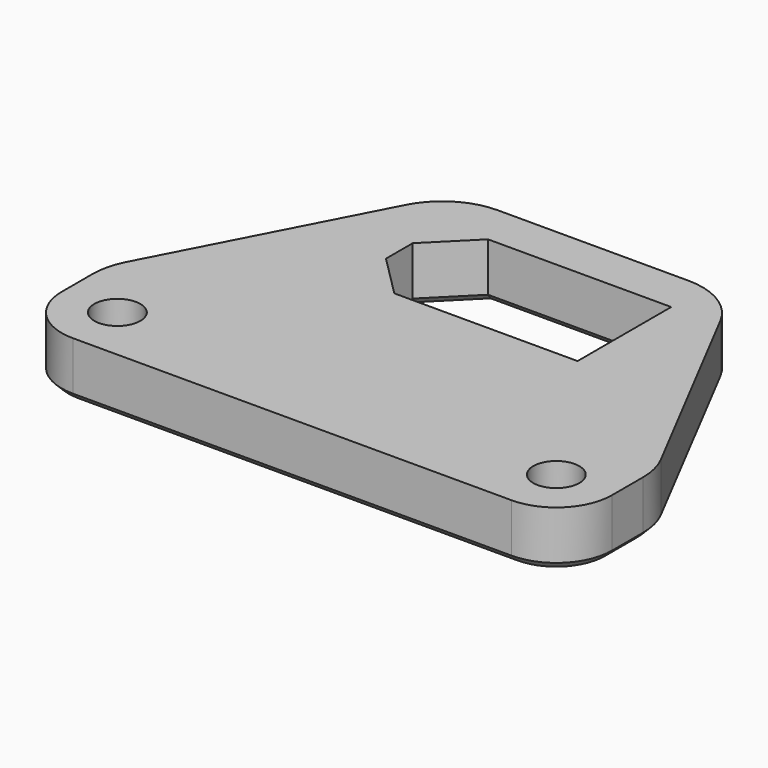
from build123d import *

# Parameters (mm, degrees)
F0_R     = 1.65
F1_DEPTH = 4
F2_R     = 5
F3_R     = 4
F4_SIZE  = 0.5


with BuildPart() as f1:
    # F0 (on Top) → F1 (new body)
    with BuildSketch(Plane.XY):
        Polygon((-19.75, -4), (0, -4), (19.75, -4), (19.75, 4), (9.875, 23), (0, 23), (-9.875, 23), (-19.75, 4), align=None)
        with Locations((-15.75, 0)):
            Circle(F0_R, mode=Mode.SUBTRACT)
        with Locations((15.75, 0)):
            Circle(F0_R, mode=Mode.SUBTRACT)
        Polygon((-8.075, 14.5), (-8.075, 15.7), (-8.075, 16.9), (-5.075, 19.9), (8.075, 19.9), (8.075, 15.7), (8.075, 11.5), (-5.075, 11.5), align=None, mode=Mode.SUBTRACT)
    extrude(amount=F1_DEPTH)

    # F2
    f2_edges = [f1.edges().sort_by_distance(p)[0] for p in [
        (-19.75, 4, 2),
        (-9.875, 23, 2),
        (9.875, 23, 2),
        (19.75, 4, 2),
    ]]
    fillet(f2_edges, radius=F2_R)

    # F3
    f3_edges = [f1.edges().sort_by_distance(p)[0] for p in [
        (19.75, -4, 2),
        (-19.75, -4, 2),
    ]]
    fillet(f3_edges, radius=F3_R)

    # F4
    f4_edges = [f1.edges().sort_by_distance(p)[0] for p in [
        (19.75, 1.38912, 0),
        (18.578427, -2.828427, 0),
        (19.607098, 3.965082, 0),
        (0, -4, 0),
        (15.230907, 12.694964, 0),
        (-18.578427, -2.828427, 0),
        (9.433953, 22.273712, 0),
        (-19.75, 1.38912, 0),
        (0, 23, 0),
        (-19.607098, 3.965082, 0),
        (-9.433953, 22.273712, 0),
        (-15.230907, 12.694964, 0),
        (-17.4, 0, 0),
        (14.1, 0, 0),
        (-8.075, 15.7, 0),
        (-6.575, 18.4, 0),
        (1.5, 19.9, 0),
        (8.075, 15.7, 0),
        (1.5, 11.5, 0),
        (-6.575, 13, 0),
    ]]
    chamfer(f4_edges, length=F4_SIZE)


solid = f1.part
